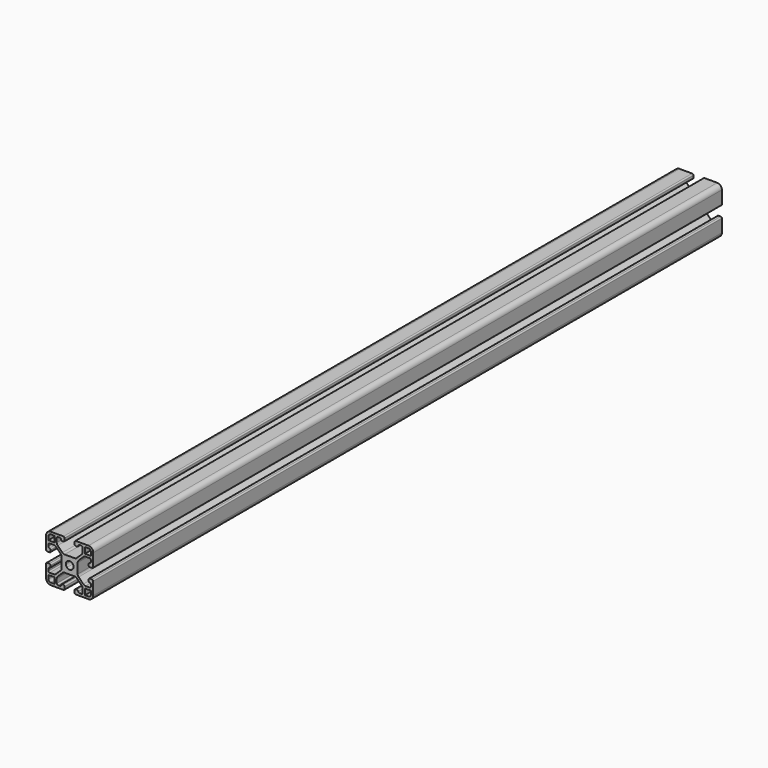
from build123d import *

# Parameters (mm, degrees)
F1_DEPTH  = 500
F2_R      = 2
F3_R      = 0.75
F4_R      = 0.75
F6_R      = 3
F8_DEPTH  = 500.001
F10_COUNT = 4


with BuildPart() as f1:
    # F0 (on Front) → F1 (new body)
    with BuildSketch(Plane.XZ):
        with BuildLine():
            Line((4.03934, 5.1), (0, 5.1))
            Line((0, 5.1), (0, 2.45))
            ThreePointArc((0, 2.45), (0.937574, 2.263505), (1.732412, 1.732412))
            Line((1.732412, 1.732412), (15, 15))
            Line((15, 15), (3.175, 15))
            Line((3.175, 15), (3.175, 12.1))
            Line((3.175, 12.1), (5.475, 12.1))
            Line((5.475, 12.1), (5.475, 13.5))
            Line((5.475, 13.5), (8.225, 13.5))
            Line((8.225, 13.5), (8.225, 9.28566))
            Line((8.225, 9.28566), (4.03934, 5.1))
        make_face()
    extrude(amount=-F1_DEPTH)

    # F2
    f2_edges = [f1.edges().sort_by_distance(p)[0] for p in [
        (4.03934, 250, 5.1),
        (8.225, 250, 9.28566),
    ]]
    fillet(f2_edges, radius=F2_R)

    # F3
    f3_edges = [f1.edges().sort_by_distance(p)[0] for p in [
        (3.175, 250, 12.1),
        (5.475, 250, 12.1),
        (3.175, 250, 15),
    ]]
    fillet(f3_edges, radius=F3_R)

    # F4
    f4_edges = [f1.edges().sort_by_distance(p)[0] for p in [
        (5.475, 250, 13.5),
        (8.225, 250, 13.5),
    ]]
    fillet(f4_edges, radius=F4_R)

    # F5: F1 across face


with BuildPart() as f1_1:
    add(f1.part)
    add(f1.part.mirror(Plane(origin=(8.366206, 250, 8.366206), x_dir=(0, 1, 0), z_dir=(0.707107, 0, -0.707107))))

    # F6
    f6_edges = [f1_1.edges().sort_by_distance(p)[0] for p in [
        (15, 250, 15),
    ]]
    fillet(f6_edges, radius=F6_R)

    # F7 (on Front) → F8 (cut, through all)
    with BuildSketch(Plane.XZ):
        with BuildLine():
            Line((12, 13.5), (9.725, 13.5))
            Line((9.725, 13.5), (9.725, 9.725))
            Line((9.725, 9.725), (13.5, 9.725))
            Line((13.5, 9.725), (13.5, 12))
            ThreePointArc((13.5, 12), (13.06066, 13.06066), (12, 13.5))
        make_face()
    extrude(amount=-F8_DEPTH, mode=Mode.SUBTRACT)

    # F10: F1 ×4 about axis
    f10_axis = Axis((0, 6.031525, 0), (0, 1, 0))


with BuildPart() as f1_2:
    add(f1_1.part)
    for i in range(1, F10_COUNT):
        add(f1_1.part.rotate(f10_axis, i * 360 / F10_COUNT))


solid = f1_2.part
